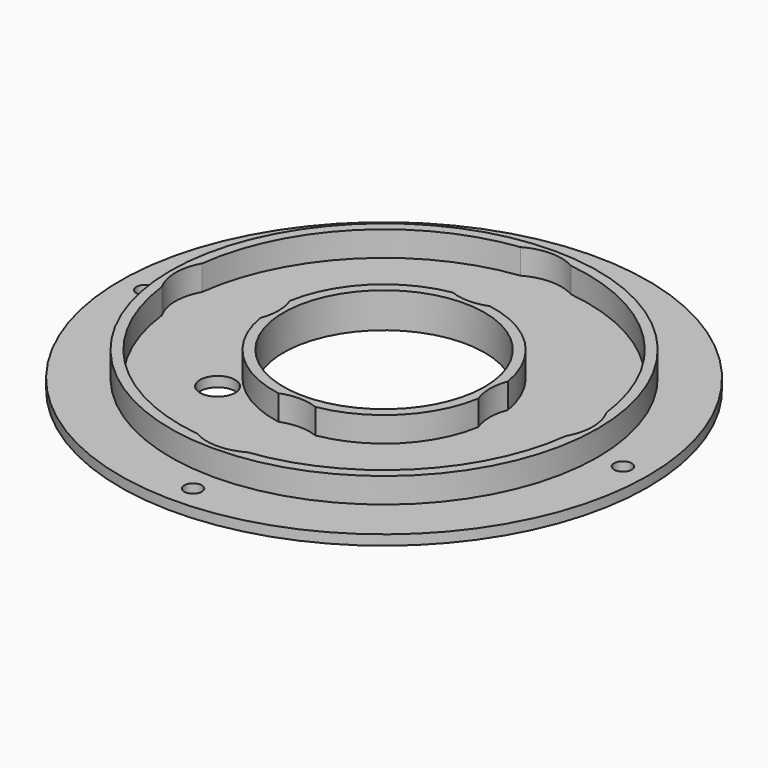
from build123d import *

# Parameters (mm, degrees)
F0_R     = 52.5
F0_R_2   = 1.75
F0_R_3   = 42.5
F1_DEPTH = 2
F0_R_4   = 20
F2_DEPTH = 7
F3_T     = -2
F4_R     = 10.25
F5_DEPTH = 25
F6_R     = 3.5
F7_DEPTH = 25


with BuildPart() as f1:
    # F0 (on Top) → F1 (new body)
    with BuildSketch(Plane.XY):
        Circle(F0_R)
        with Locations((0, -47.5)):
            Circle(F0_R_2, mode=Mode.SUBTRACT)
        with Locations((-47.5, 0)):
            Circle(F0_R_2, mode=Mode.SUBTRACT)
        Circle(F0_R_3, mode=Mode.SUBTRACT)
        with Locations((47.5, 0)):
            Circle(F0_R_2, mode=Mode.SUBTRACT)
        with Locations((0, 47.5)):
            Circle(F0_R_2, mode=Mode.SUBTRACT)
    extrude(amount=F1_DEPTH)

    # F0 (on Top) → F2 (join)
    with BuildSketch(Plane.XY):
        Circle(F0_R_3)
        Circle(F0_R_4, mode=Mode.SUBTRACT)
    extrude(amount=F2_DEPTH)

    # F3
    f3_openings = [f1.faces().sort_by_distance(p)[0] for p in [
        (-41.297918, 0, 7),
    ]]
    offset(amount=F3_T, openings=f3_openings, kind=Kind.INTERSECTION)

    # F4 (on face) → F5 (cut)
    with BuildSketch(Plane.XY.offset(2)):
        with Locations((0, 31.25)):
            Circle(F4_R)
        with Locations((-31.25, 0)):
            Circle(F4_R)
        with Locations((0, -31.25)):
            Circle(F4_R)
        with Locations((31.25, 0)):
            Circle(F4_R)
    extrude(amount=F5_DEPTH, mode=Mode.SUBTRACT)

    # F6 (on face) → F7 (cut)
    with BuildSketch(Plane.XY.offset(2)):
        with Locations((-18.4997347846, -18.269094474)):
            Circle(F6_R)
    extrude(amount=-F7_DEPTH, mode=Mode.SUBTRACT)


solid = f1.part
